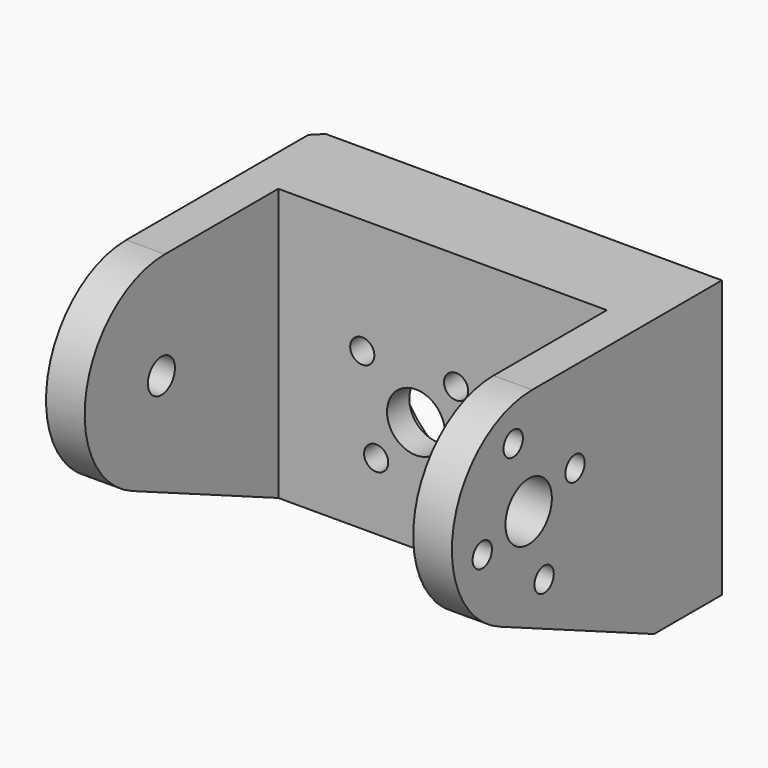
from build123d import *

# Parameters (mm, degrees)
CYLINDER038_R             = 1.75
CYLINDER038_DEPTH         = 22
CYLINDER038_PITCH_ANGLE   = 90
CYLINDER032_R             = 1.25
CYLINDER032_DEPTH         = 22
CYLINDER032_PITCH_ANGLE   = 90
CYLINDER033_R             = 1.25
CYLINDER033_DEPTH         = 22
CYLINDER033_PITCH_ANGLE   = 90
CYLINDER031_R             = 1.25
CYLINDER031_DEPTH         = 22
CYLINDER031_PITCH_ANGLE   = 90
CYLINDER030_R             = 1.25
CYLINDER030_DEPTH         = 22
CYLINDER030_PITCH_ANGLE   = 90
CYLINDER036_R             = 1.25
CYLINDER036_DEPTH         = 22
CYLINDER036_PITCH_ANGLE   = 90
CYLINDER037_R             = 1.25
CYLINDER037_DEPTH         = 22
CYLINDER037_PITCH_ANGLE   = 90
CYLINDER035_R             = 1.25
CYLINDER035_DEPTH         = 22
CYLINDER035_PITCH_ANGLE   = 90
CYLINDER034_R             = 1.25
CYLINDER034_DEPTH         = 22
CYLINDER034_PITCH_ANGLE   = 90
FUSION028_ROLL_ANGLE      = 34
FUSION028_PLACEMENT_ANGLE = -90
CYLINDER029_R             = 3
CYLINDER029_DEPTH         = 22
CYLINDER029_PITCH_ANGLE   = 90
CYLINDER028_R             = 3
CYLINDER028_DEPTH         = 13
CYLINDER028_ROLL_ANGLE    = 90
CYLINDER027_R             = 10
CYLINDER027_DEPTH         = 10
CYLINDER027_ROLL_ANGLE    = 90
PAD003_DEPTH              = 34
PAD002_DEPTH              = 42
CHAMFER004_SIZE           = 1


with BuildPart() as cilindro011:
    # Cylinder038 → Cylinder038 (new body)
    with BuildSketch(Plane.XY):
        Circle(CYLINDER038_R)
    extrude(amount=CYLINDER038_DEPTH)


with BuildPart() as cilindro011_1:
    # Cylinder038 pitch: moved
    add(cilindro011.part.rotate(Axis((0, 0, 0), (0, 1, 0)), CYLINDER038_PITCH_ANGLE))


with BuildPart() as cilindro011_2:
    # Cylinder038 placement: moved
    add(cilindro011_1.part.moved(Location((-4.75, -32, 125.75))))


with BuildPart() as cilindro005:
    # Cylinder032 → Cylinder032 (new body)
    with BuildSketch(Plane.XY):
        Circle(CYLINDER032_R)
    extrude(amount=CYLINDER032_DEPTH)


with BuildPart() as cilindro005_1:
    # Cylinder032 pitch: moved
    add(cilindro005.part.rotate(Axis((0, 0, 0), (0, 1, 0)), CYLINDER032_PITCH_ANGLE))


with BuildPart() as cilindro005_2:
    # Cylinder032 placement: moved
    add(cilindro005_1.part.moved(Location((20.25, -38, 124.25))))


with BuildPart() as cilindro006:
    # Cylinder033 → Cylinder033 (new body)
    with BuildSketch(Plane.XY):
        Circle(CYLINDER033_R)
    extrude(amount=CYLINDER033_DEPTH)


with BuildPart() as cilindro006_1:
    # Cylinder033 pitch: moved
    add(cilindro006.part.rotate(Axis((0, 0, 0), (0, 1, 0)), CYLINDER033_PITCH_ANGLE))


with BuildPart() as cilindro006_2:
    # Cylinder033 placement: moved
    add(cilindro006_1.part.moved(Location((20.25, -26, 127.25))))


with BuildPart() as cilindro004:
    # Cylinder031 → Cylinder031 (new body)
    with BuildSketch(Plane.XY):
        Circle(CYLINDER031_R)
    extrude(amount=CYLINDER031_DEPTH)


with BuildPart() as cilindro004_1:
    # Cylinder031 pitch: moved
    add(cilindro004.part.rotate(Axis((0, 0, 0), (0, 1, 0)), CYLINDER031_PITCH_ANGLE))


with BuildPart() as cilindro004_2:
    # Cylinder031 placement: moved
    add(cilindro004_1.part.moved(Location((20.25, -30, 118.75))))


with BuildPart() as fusion027:
    # Cylinder030 → Cylinder030 (new body)
    with BuildSketch(Plane.XY):
        Circle(CYLINDER030_R)
    extrude(amount=CYLINDER030_DEPTH)


with BuildPart() as fusion027_1:
    # Cylinder030 pitch: moved
    add(fusion027.part.rotate(Axis((0, 0, 0), (0, 1, 0)), CYLINDER030_PITCH_ANGLE))


with BuildPart() as fusion027_2:
    # Cylinder030 placement: moved
    add(fusion027_1.part.moved(Location((20.25, -34, 132.75))))

    # Fusion027: union Cilindro005, Cilindro006, Cilindro004
    add(cilindro005_2.part)
    add(cilindro006_2.part)
    add(cilindro004_2.part)


with BuildPart() as cilindro009:
    # Cylinder036 → Cylinder036 (new body)
    with BuildSketch(Plane.XY):
        Circle(CYLINDER036_R)
    extrude(amount=CYLINDER036_DEPTH)


with BuildPart() as cilindro009_1:
    # Cylinder036 pitch: moved
    add(cilindro009.part.rotate(Axis((0, 0, 0), (0, 1, 0)), CYLINDER036_PITCH_ANGLE))


with BuildPart() as cilindro009_2:
    # Cylinder036 placement: moved
    add(cilindro009_1.part.moved(Location((20.25, -38, 124.25))))


with BuildPart() as cilindro010:
    # Cylinder037 → Cylinder037 (new body)
    with BuildSketch(Plane.XY):
        Circle(CYLINDER037_R)
    extrude(amount=CYLINDER037_DEPTH)


with BuildPart() as cilindro010_1:
    # Cylinder037 pitch: moved
    add(cilindro010.part.rotate(Axis((0, 0, 0), (0, 1, 0)), CYLINDER037_PITCH_ANGLE))


with BuildPart() as cilindro010_2:
    # Cylinder037 placement: moved
    add(cilindro010_1.part.moved(Location((20.25, -26, 127.25))))


with BuildPart() as cilindro008:
    # Cylinder035 → Cylinder035 (new body)
    with BuildSketch(Plane.XY):
        Circle(CYLINDER035_R)
    extrude(amount=CYLINDER035_DEPTH)


with BuildPart() as cilindro008_1:
    # Cylinder035 pitch: moved
    add(cilindro008.part.rotate(Axis((0, 0, 0), (0, 1, 0)), CYLINDER035_PITCH_ANGLE))


with BuildPart() as cilindro008_2:
    # Cylinder035 placement: moved
    add(cilindro008_1.part.moved(Location((20.25, -30, 118.75))))


with BuildPart() as fusion028:
    # Cylinder034 → Cylinder034 (new body)
    with BuildSketch(Plane.XY):
        Circle(CYLINDER034_R)
    extrude(amount=CYLINDER034_DEPTH)


with BuildPart() as fusion028_1:
    # Cylinder034 pitch: moved
    add(fusion028.part.rotate(Axis((0, 0, 0), (0, 1, 0)), CYLINDER034_PITCH_ANGLE))


with BuildPart() as fusion028_2:
    # Cylinder034 placement: moved
    add(fusion028_1.part.moved(Location((20.25, -34, 132.75))))

    # Fusion028: union Cilindro009, Cilindro010, Cilindro008
    add(cilindro009_2.part)
    add(cilindro010_2.part)
    add(cilindro008_2.part)


with BuildPart() as fusion028_3:
    # Fusion028 roll: moved
    add(fusion028_2.part.rotate(Axis((0, 0, 0), (1, 0, 0)), FUSION028_ROLL_ANGLE))


with BuildPart() as fusion028_4:
    # Fusion028 placement: moved
    add(fusion028_3.part.moved(Location((114.107998, 21, 33.646227))).rotate(Axis((114.107998, 21, 33.646227), (0, 0, 1)), FUSION028_PLACEMENT_ANGLE))


with BuildPart() as cilindro002:
    # Cylinder029 → Cylinder029 (new body)
    with BuildSketch(Plane.XY):
        Circle(CYLINDER029_R)
    extrude(amount=CYLINDER029_DEPTH)


with BuildPart() as cilindro002_1:
    # Cylinder029 pitch: moved
    add(cilindro002.part.rotate(Axis((0, 0, 0), (0, 1, 0)), CYLINDER029_PITCH_ANGLE))


with BuildPart() as cilindro002_2:
    # Cylinder029 placement: moved
    add(cilindro002_1.part.moved(Location((20.25, -32, 125.75))))


with BuildPart() as cilindro001:
    # Cylinder028 → Cylinder028 (new body)
    with BuildSketch(Plane.XY):
        Circle(CYLINDER028_R)
    extrude(amount=CYLINDER028_DEPTH)


with BuildPart() as cilindro001_1:
    # Cylinder028 roll: moved
    add(cilindro001.part.rotate(Axis((0, 0, 0), (1, 0, 0)), CYLINDER028_ROLL_ANGLE))


with BuildPart() as cilindro001_2:
    # Cylinder028 placement: moved
    add(cilindro001_1.part.moved(Location((17.25, -6, 120))))


with BuildPart() as cilindro:
    # Cylinder027 → Cylinder027 (new body)
    with BuildSketch(Plane.XY):
        Circle(CYLINDER027_R)
    extrude(amount=CYLINDER027_DEPTH)


with BuildPart() as cilindro_1:
    # Cylinder027 roll: moved
    add(cilindro.part.rotate(Axis((0, 0, 0), (1, 0, 0)), CYLINDER027_ROLL_ANGLE))


with BuildPart() as cilindro_2:
    # Cylinder027 placement: moved
    add(cilindro_1.part.moved(Location((17.25, -4, 120))))


with BuildPart() as pad003:
    # Sketch008 → Pad003 (new body)
    with BuildSketch(Plane(origin=(3, -12, -1), x_dir=(0, 1, 0), z_dir=(1, 0, 0))):
        Polygon((-4.882067, 101.940956), (-4.882067, 138.559921), (-40.571098, 142.373672), (-40.571098, 120.688431), align=None)
    extrude(amount=PAD003_DEPTH)


with BuildPart() as obj1:
    # Sketch007 → Pad002 (new body)
    with BuildSketch(Plane.YZ.offset(-1)):
        with BuildLine():
            Line((-35.729516, 116.76657), (-15.773906, 107.988197))
            Line((-15.773906, 107.988197), (-7.000344, 107.988197))
            Line((-7.000344, 107.988197), (-7.000344, 136.642965))
            Line((-7.000344, 136.642965), (-31.550963, 136.642965))
            ThreePointArc((-31.550963, 136.642965), (-41.706398, 128.400491), (-35.729516, 116.76657))
        make_face()
    extrude(amount=PAD002_DEPTH)

    # Cut035: cut Pad003
    add(pad003.part, mode=Mode.SUBTRACT)

    # Cut036: cut Cilindro
    add(cilindro_2.part, mode=Mode.SUBTRACT)

    # Cut037: cut Cilindro001
    add(cilindro001_2.part, mode=Mode.SUBTRACT)

    # Chamfer004
    chamfer004_edges = [obj1.edges().sort_by_distance(p)[0] for p in [
        (-1, -7.000344, 122.315581),
    ]]
    chamfer(chamfer004_edges, length=CHAMFER004_SIZE)

    # Cut038: cut Cilindro002
    add(cilindro002_2.part, mode=Mode.SUBTRACT)

    # Cut039: cut Fusion028
    add(fusion028_4.part, mode=Mode.SUBTRACT)

    # Cut040: cut Fusion027
    add(fusion027_2.part, mode=Mode.SUBTRACT)

    # Cut041: cut Cilindro011
    add(cilindro011_2.part, mode=Mode.SUBTRACT)


solid = obj1.part
